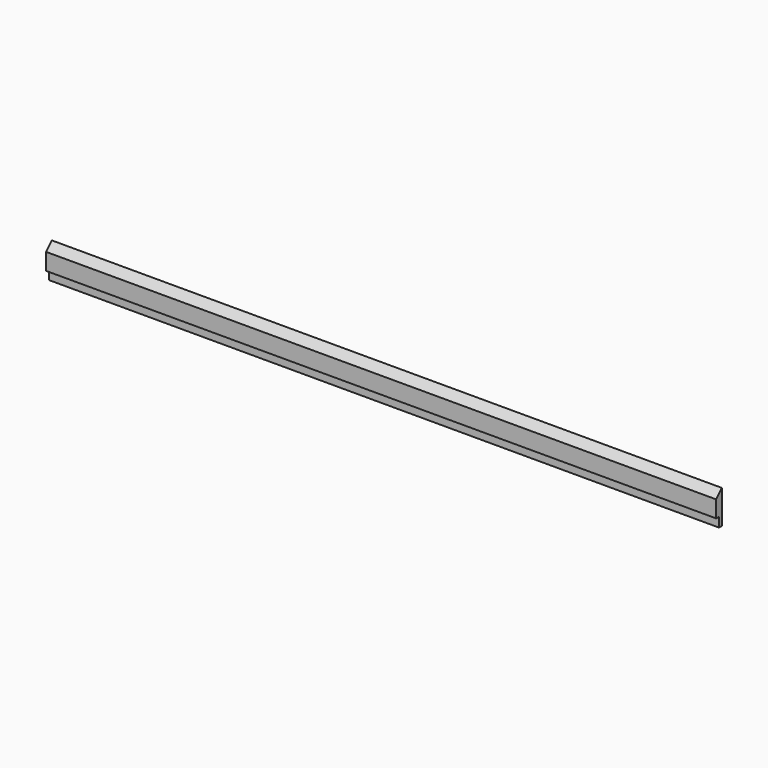
from build123d import *

# Parameters (mm, degrees)
F1_DEPTH = 444.5
F2_W     = 4.7625
F2_H     = 12.7
F3_DEPTH = 889.001


with BuildPart() as f1:
    # F0 (on Right) → F1 (new body, symmetric)
    with BuildSketch(Plane.YZ):
        Polygon((0, 0), (9.525, 0), (9.525, 44.45), (0, 34.925), align=None)
    extrude(amount=F1_DEPTH, both=True)

    # F2 (on face) → F3 (cut, through all)
    with BuildSketch(Plane.YZ.offset(444.5)):
        with Locations((2.38125, 6.35)):
            Rectangle(F2_W, F2_H)
    extrude(amount=-F3_DEPTH, mode=Mode.SUBTRACT)


solid = f1.part
